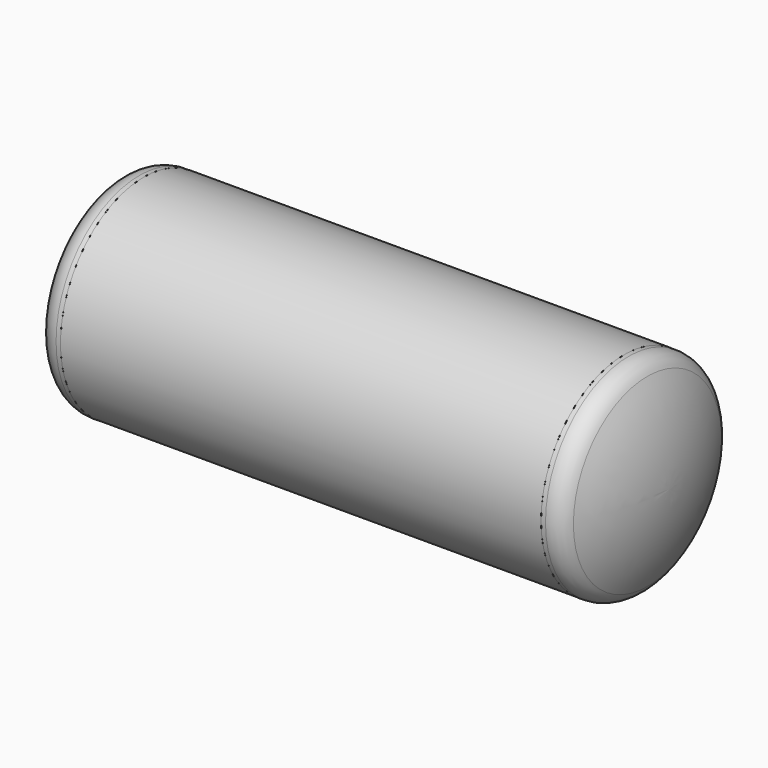
from build123d import *

# Parameters (mm, degrees)
F0_R     = 1170
F0_R_2   = 1150
F1_DEPTH = 2700


with BuildPart() as f1:
    # F0 (on Right) → F1 (new body)
    with BuildSketch(Plane.YZ):
        Circle(F0_R)
        Circle(F0_R_2, mode=Mode.SUBTRACT)
    extrude(amount=-F1_DEPTH)

    # F7: F1 across plane


with BuildPart() as f3:
    # F2 (on Top) → F3 (revolve)
    with BuildSketch(Plane.XY):
        with BuildLine():
            Line((0, -1148), (0, -1170))
            Line((0, -1170), (50, -1170))
            ThreePointArc((50, -1170), (173.328829, -1134.861761), (259.618701, -1040))
            ThreePointArc((259.618701, -1040), (441.663196, -534.098486), (503.431687, 0))
            Line((503.431687, 0), (481.431687, 0))
            ThreePointArc((481.431687, 0), (420.243925, -529.077047), (239.91096, -1030.222222))
            ThreePointArc((239.91096, -1030.222222), (161.733811, -1116.165356), (50, -1148))
            Line((50, -1148), (0, -1148))
        make_face()
    revolve(axis=Axis((251.715843, 0, 0), (1, 0, 0)))


with BuildPart() as f4_1:
    # F4: instance of F1
    add(f1.part.mirror(Plane.YZ))


with BuildPart() as f1_1:
    add(f1.part)
    add(f1.part.mirror(Plane(origin=(-2700, 0, 0), x_dir=(0, 1, 0), z_dir=(-1, 0, 0))))


with BuildPart() as f8_1:
    # F8: instance of F3
    add(f3.part.mirror(Plane(origin=(-2700, 0, 0), x_dir=(0, 1, 0), z_dir=(-1, 0, 0))))


solid = Compound([f3.part, f1_1.part, f8_1.part])
